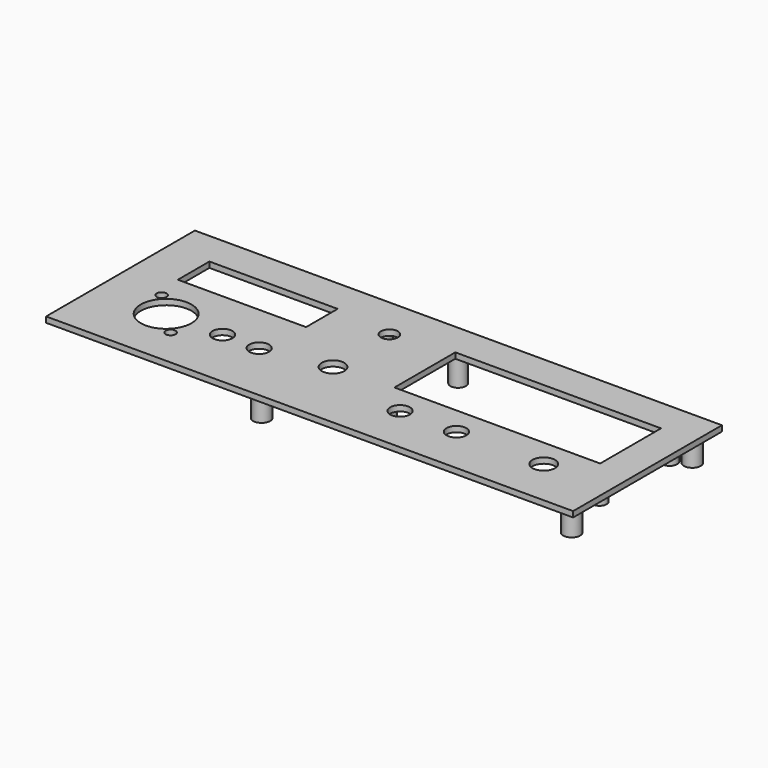
from build123d import *

# Parameters (mm, degrees)
SKETCH_W      = 187
SKETCH_H      = 66
SKETCH_R      = 4
SKETCH_R_2    = 3
SKETCH_R_3    = 3.5
SKETCH_R_4    = 9
SKETCH_R_5    = 1.75
SKETCH_W_2    = 73
SKETCH_H_2    = 27
SKETCH_W_3    = 45.5
SKETCH_H_3    = 14
PAD_DEPTH     = 2
SKETCH001_R   = 2.75
SKETCH001_R_2 = 1.25
SKETCH001_R_3 = 2.5
SKETCH001_R_4 = 3
SKETCH001_R_5 = 1.5
PAD001_DEPTH  = 9


with BuildPart() as part:
    # Sketch → Pad (new body)
    with BuildSketch(Plane.XY):
        Rectangle(SKETCH_W, SKETCH_H)
        with Locations((69.5, -16)):
            Circle(SKETCH_R, mode=Mode.SUBTRACT)
        with Locations((-12.5, -7)):
            Circle(SKETCH_R, mode=Mode.SUBTRACT)
        with Locations((-12.5, 18)):
            Circle(SKETCH_R_2, mode=Mode.SUBTRACT)
        with Locations((-48.5, -11)):
            Circle(SKETCH_R_3, mode=Mode.SUBTRACT)
        with Locations((-35.5, -11)):
            Circle(SKETCH_R_3, mode=Mode.SUBTRACT)
        with Locations((-68.5, -11)):
            Circle(SKETCH_R_4, mode=Mode.SUBTRACT)
        with Locations((-76.454951, -3.045049)):
            Circle(SKETCH_R_5, mode=Mode.SUBTRACT)
        with Locations((-60.545049, -18.954951)):
            Circle(SKETCH_R_5, mode=Mode.SUBTRACT)
        with Locations((18.5, -16)):
            Circle(SKETCH_R_3, mode=Mode.SUBTRACT)
        with Locations((38.5, -16)):
            Circle(SKETCH_R_3, mode=Mode.SUBTRACT)
        with Locations((45, 7.5)):
            Rectangle(SKETCH_W_2, SKETCH_H_2, mode=Mode.SUBTRACT)
        with Locations((-56, 14)):
            Rectangle(SKETCH_W_3, SKETCH_H_3, mode=Mode.SUBTRACT)
    extrude(amount=PAD_DEPTH)

    # Sketch001 → Pad001 (join)
    with BuildSketch(Plane.XY):
        with Locations((82.5, 23.5)):
            Circle(SKETCH001_R)
        with Locations((82.5, 23.5)):
            Circle(SKETCH001_R_2, mode=Mode.SUBTRACT)
        with Locations((7.5, 23.5)):
            Circle(SKETCH001_R)
        with Locations((7.5, 23.5)):
            Circle(SKETCH001_R_2, mode=Mode.SUBTRACT)
        with Locations((82.5, -7.5)):
            Circle(SKETCH001_R_3)
        with Locations((82.5, -7.5)):
            Circle(SKETCH001_R_2, mode=Mode.SUBTRACT)
        with Locations((7.5, -7.5)):
            Circle(SKETCH001_R_3)
        with Locations((7.5, -7.5)):
            Circle(SKETCH001_R_2, mode=Mode.SUBTRACT)
        with Locations((-22, 26.75)):
            Circle(SKETCH001_R_4)
        with Locations((-22, 26.75)):
            Circle(SKETCH001_R_5, mode=Mode.SUBTRACT)
        with Locations((-22, -26.75)):
            Circle(SKETCH001_R_4)
        with Locations((-22, -26.75)):
            Circle(SKETCH001_R_5, mode=Mode.SUBTRACT)
        with Locations((88, -26.75)):
            Circle(SKETCH001_R_4)
        with Locations((88, -26.75)):
            Circle(SKETCH001_R_5, mode=Mode.SUBTRACT)
        with Locations((88, 26.750001)):
            Circle(SKETCH001_R_4)
        with Locations((88, 26.750001)):
            Circle(SKETCH001_R_5, mode=Mode.SUBTRACT)
    extrude(amount=-PAD001_DEPTH)


solid = part.part
